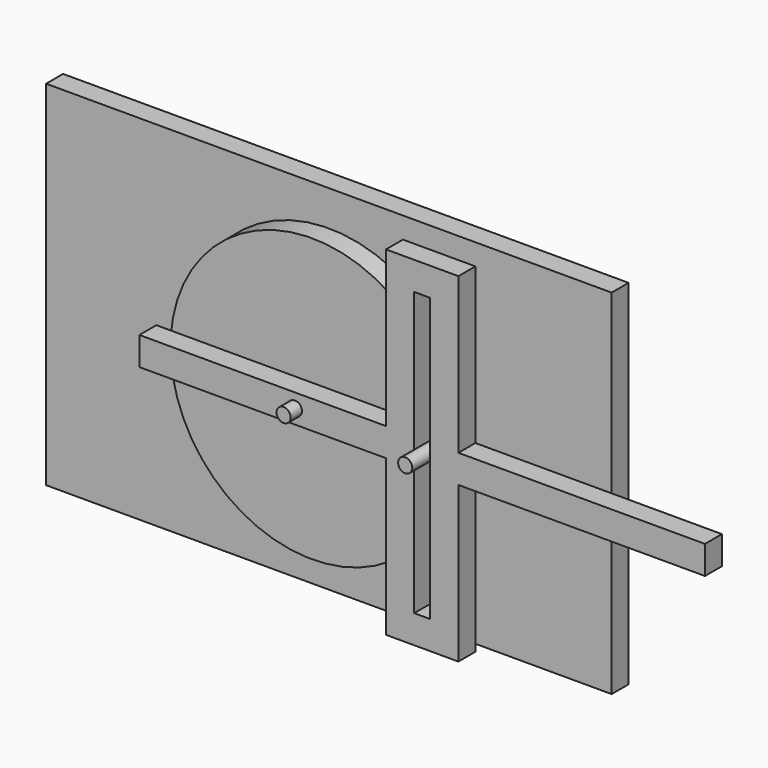
from build123d import *

# Parameters (mm, degrees)
F1_R     = 63.5
F1_R_2   = 3.3782
F2_DEPTH = 9.525
F3_R     = 3.175
F4_DEPTH = 19.05
F3_W     = 12.6873
F3_H     = 12.7
F3_W_2   = 110.7313
F5_DEPTH = 9.525
F6_W     = 254
F6_H     = 158.75
F6_R     = 63.5
F6_R_2   = 3.3782
F7_DEPTH = 9.525
F8_R     = 3.175
F9_DEPTH = 25.4


with BuildPart() as f2:
    # F1 (on Front) → F2 (new body)
    with BuildSketch(Plane.XZ):
        Circle(F1_R)
        Circle(F1_R_2, mode=Mode.SUBTRACT)
    extrude(amount=F2_DEPTH)

    # F3 (on face) → F4 (join)
    with BuildSketch(Plane.XZ.offset(9.525)):
        with Locations((57.15, 0)):
            Circle(F3_R)
    extrude(amount=F4_DEPTH)


with BuildPart() as f5:
    # F3 (on face) → F5 (new body)
    with BuildSketch(Plane.XZ.offset(9.525)):
        Polygon((53.5686, 6.35), (53.5686, 63.5), (60.7314, 63.5), (60.7314, 6.35), (73.4187, 6.35), (73.4187, 76.2), (40.8813, 76.2), (40.8813, 6.35), align=None)
        with Locations((47.22495, 0)):
            Rectangle(F3_W, F3_H)
        with Locations((67.07505, 0)):
            Rectangle(F3_W, F3_H)
        Polygon((53.5686, -63.5), (53.5686, -6.35), (40.8813, -6.35), (40.8813, -76.2), (73.4187, -76.2), (73.4187, -6.35), (60.7314, -6.35), (60.7314, -63.5), align=None)
        with Locations((-14.48435, 0)):
            Rectangle(F3_W_2, F3_H)
        with Locations((128.78435, 0)):
            Rectangle(F3_W_2, F3_H)
    extrude(amount=F5_DEPTH)


with BuildPart() as f7:
    # F6 (on face) → F7 (new body)
    with BuildSketch(Plane(origin=(0, 0, 0), x_dir=(-1, 0, 0), z_dir=(0, 1, 0))):
        Rectangle(F6_W, F6_H)
        Circle(F6_R, mode=Mode.SUBTRACT)
        Circle(F6_R)
        Circle(F6_R_2, mode=Mode.SUBTRACT)
        Circle(F6_R_2)
    extrude(amount=F7_DEPTH)


with BuildPart() as f9:
    # F8 (on face) → F9 (new body)
    with BuildSketch(Plane.XZ):
        Circle(F8_R)
    extrude(amount=F9_DEPTH)


solid = Compound([f2.part, f5.part, f7.part, f9.part])
